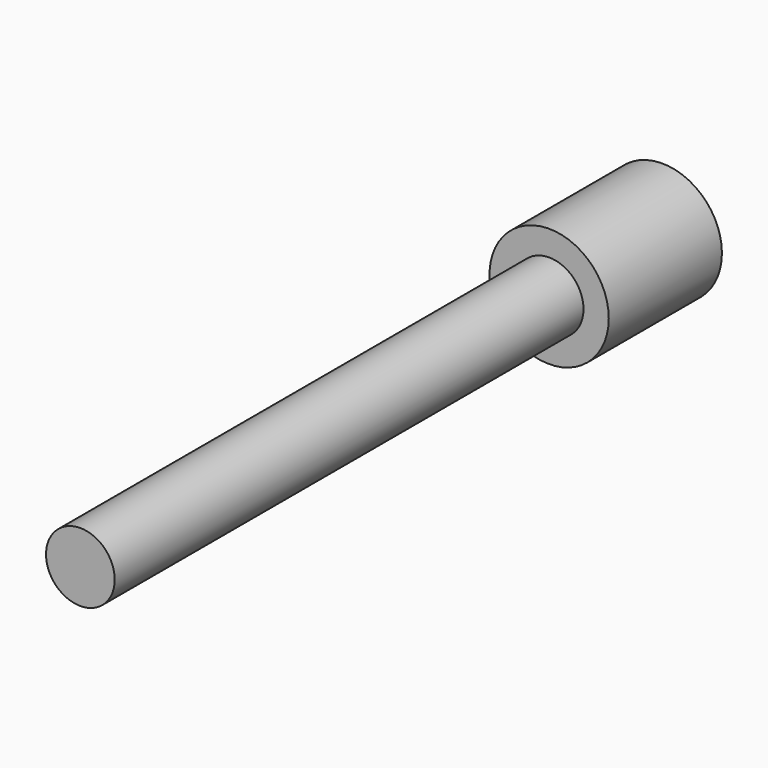
from build123d import *

# Parameters (mm, degrees)
CYLINDER_R          = 2.95
CYLINDER_DEPTH      = 7
CYLINDER001_R       = 1.7
CYLINDER001_DEPTH   = 30
CLONE052_ROLL_ANGLE = 90


with BuildPart() as m3bolthead:
    # Cylinder → Cylinder (new body)
    with BuildSketch(Plane.XY):
        Circle(CYLINDER_R)
    extrude(amount=CYLINDER_DEPTH)


with BuildPart() as clone_of_m3bolt015:
    # Cylinder001 → Cylinder001 (new body)
    with BuildSketch(Plane.XY.offset(6)):
        Circle(CYLINDER001_R)
    extrude(amount=CYLINDER001_DEPTH)

    # Fusion: union M3BoltHead
    add(m3bolthead.part)


with BuildPart() as clone_of_m3bolt015_1:
    # Clone052 roll: moved
    add(clone_of_m3bolt015.part.rotate(Axis((0, 0, 0), (1, 0, 0)), CLONE052_ROLL_ANGLE))


with BuildPart() as clone_of_m3bolt015_2:
    # Clone052 placement: moved
    add(clone_of_m3bolt015_1.part.moved(Location((31.5, 70, 8))))


solid = clone_of_m3bolt015_2.part
